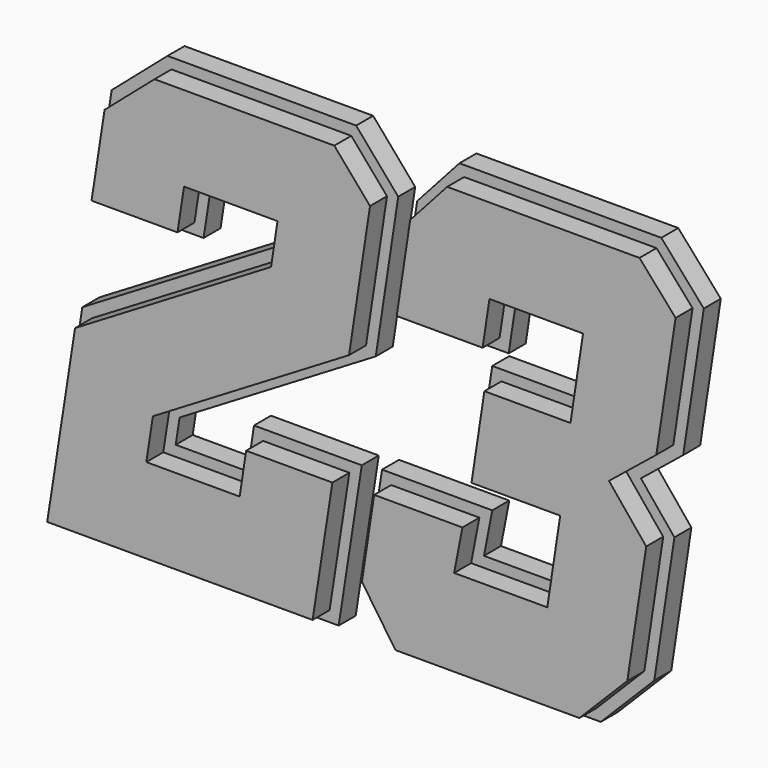
from build123d import *

# Parameters (mm, degrees)
F1_DEPTH = 25.4
F2_DEPTH = 50.8


with BuildPart() as f1:
    # F0 (on Front) → F1 (new body)
    with BuildSketch(Plane.XZ):
        Polygon((112.743549, 461.984992), (120.616771, 512.784992), (206.761961, 512.784992), (202.167697, 482.503099), (-32.295774, 341.962492), (-68.806682, 106.384992), (274.393014, 106.384992), (302.008014, 284.184992), (173.065308, 284.184992), (165.358108, 233.384992), (79.392611, 233.384992), (84.083868, 263.654159), (318.759659, 404.322033), (345.598504, 581.223302), (295.294644, 639.784992), (69.648293, 639.784992), (2.832766, 582.032024), (-15.772687, 461.984992), align=None)
        Polygon((263.513248, 119.084992), (-53.986752, 119.084992), (-20.657809, 334.131658), (213.826893, 474.684992), (221.534093, 525.484992), (109.733453, 525.484992), (101.860231, 474.684992), (-0.952758, 474.684992), (14.668222, 575.475452), (74.376298, 627.084992), (289.461649, 627.084992), (332.168222, 577.367753), (307.100463, 412.14014), (72.445904, 271.484992), (64.572681, 220.684992), (176.276641, 220.684992), (183.98384, 271.484992), (287.183247, 271.484992), align=None, mode=Mode.SUBTRACT)
        Polygon((326.20924, 287.499707), (309.204088, 175.414667), (355.941931, 106.893002), (587.939145, 106.893002), (651.943133, 171.299923), (676.011597, 329.940943), (635.951093, 379.038421), (686.550848, 419.94955), (711.187572, 582.336115), (660.33141, 640.293002), (418.832756, 640.293002), (368.258426, 583.971529), (349.327158, 459.190996), (477.780479, 459.190996), (485.988647, 513.293002), (572.25927, 513.293002), (561.07482, 439.573605), (458.088912, 439.573605), (438.820914, 312.573605), (544.923363, 312.573605), (533.362564, 236.373605), (448.208969, 236.373605), (458.130843, 287.499707), align=None)
        Polygon((364.09929, 471.890996), (380.245102, 578.311922), (424.497454, 627.593002), (654.579304, 627.593002), (697.745102, 578.400236), (674.733756, 426.726927), (618.046191, 380.893656), (662.610324, 326.276606), (640.009347, 177.308145), (582.655273, 119.593002), (362.652413, 119.593002), (322.509347, 178.44616), (337.127772, 274.799707), (442.729253, 274.799707), (432.80738, 223.673605), (544.281097, 223.673605), (559.695495, 325.273605), (453.593046, 325.273605), (469.007444, 426.873605), (571.993352, 426.873605), (587.031402, 525.993002), (475.070115, 525.993002), (466.861947, 471.890996), align=None, mode=Mode.SUBTRACT)
    extrude(amount=F1_DEPTH)


with BuildPart() as f2:
    # F0 (on Front) → F2 (new body)
    with BuildSketch(Plane.XZ):
        Polygon((424.497454, 627.593002), (380.245102, 578.311922), (364.09929, 471.890996), (466.861947, 471.890996), (475.070115, 525.993002), (587.031402, 525.993002), (571.993352, 426.873605), (469.007444, 426.873605), (453.593046, 325.273605), (559.695495, 325.273605), (544.281097, 223.673605), (432.80738, 223.673605), (442.729253, 274.799707), (337.127772, 274.799707), (322.509347, 178.44616), (362.652413, 119.593002), (582.655273, 119.593002), (640.009347, 177.308145), (662.610324, 326.276606), (618.046191, 380.893656), (674.733756, 426.726927), (697.745102, 578.400236), (654.579304, 627.593002), align=None)
        Polygon((-20.657809, 334.131658), (-53.986752, 119.084992), (263.513248, 119.084992), (287.183247, 271.484992), (183.98384, 271.484992), (176.276641, 220.684992), (64.572681, 220.684992), (72.445904, 271.484992), (307.100463, 412.14014), (332.168222, 577.367753), (289.461649, 627.084992), (74.376298, 627.084992), (14.668222, 575.475452), (-0.952758, 474.684992), (101.860231, 474.684992), (109.733453, 525.484992), (221.534093, 525.484992), (213.826893, 474.684992), align=None)
    extrude(amount=F2_DEPTH)


solid = Compound([f1.part, f2.part])
